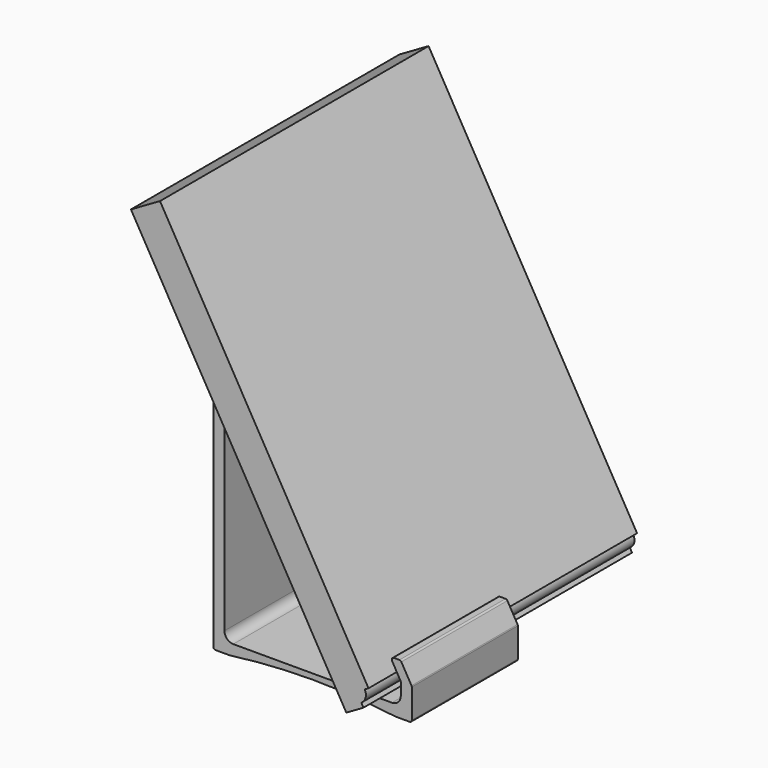
from build123d import *

# Parameters (mm, degrees)
F1_DEPTH = 96.52
F2_ANGLE = -30
F5_DEPTH = 76.2
F8_R     = 1.27
F9_R     = 5.08


with BuildPart() as f1:
    # F0 (on Front) → F1 (new body, symmetric)
    with BuildSketch(Plane.XZ):
        with BuildLine():
            Line((0, 247.65), (0, 0))
            Line((0, 0), (11.43, 0))
            Line((11.43, 0), (11.43, 2.54))
            ThreePointArc((11.43, 2.54), (15.2017075708, 4.1022924292), (16.764, 7.874))
            Line((16.764, 7.874), (19.304, 7.874))
            Line((19.304, 7.874), (19.304, 247.65))
            Line((19.304, 247.65), (0, 247.65))
        make_face()
    extrude(amount=F1_DEPTH, both=True)


with BuildPart() as f1_1:
    # F2: moved
    add(f1.part.rotate(Axis((0, 0, 0), (0, 1, 0)), F2_ANGLE))


with BuildPart() as f5:
    # F4 (on offset) → F5 (new body)
    with BuildSketch(Plane.XZ.offset(76.2)):
        with BuildLine():
            Line((21.4404751301, 12.0308227776), (15.0668891011, 23.0701976062))
            Line((15.0668891011, 23.0701976062), (8.9707543947, 23.0701976062))
            Line((8.9707543947, 23.0701976062), (15.0904751301, 12.4705303643))
            Line((15.0904751301, 12.4705303643), (15.0904751301, 0))
            Line((15.0904751301, 0), (-86.3141369069, 0))
            Line((-86.3141369069, 0), (-86.3141369069, 149.5004705342))
            Line((-86.3141369069, 149.5004705342), (-89.4891369069, 154.9997318482))
            Line((-89.4891369069, 154.9997318482), (-92.6641369069, 154.9997318482))
            Line((-92.6641369069, 154.9997318482), (-92.6641369069, -6.35))
            Line((-92.6641369069, -6.35), (-83.1391369069, -6.35))
            ThreePointArc((-83.1391369069, -6.35), (-35.6118308884, -3.175), (11.9154751301, -6.35))
            Line((11.9154751301, -6.35), (21.4404751301, -6.35))
            Line((21.4404751301, -6.35), (21.4404751301, 12.0308227776))
        make_face()
    extrude(amount=-F5_DEPTH)

    # F8
    f8_edges = [f5.edges().sort_by_distance(p)[0] for p in [
        (8.970754, -38.1, 23.070198),
        (15.066889, -38.1, 23.070198),
        (21.440475, -38.1, 12.030823),
        (21.440475, -38.1, -6.35),
        (11.915475, -38.1, -6.35),
        (-83.139137, -38.1, -6.35),
        (-92.664137, -38.1, -6.35),
        (-92.664137, -38.1, 154.999732),
        (-89.489137, -38.1, 154.999732),
        (-86.314137, -38.1, 149.500471),
    ]]
    fillet(f8_edges, radius=F8_R)

    # F9
    f9_edges = [f5.edges().sort_by_distance(p)[0] for p in [
        (-86.314137, -38.1, 0),
        (15.090475, -38.1, 0),
    ]]
    fillet(f9_edges, radius=F9_R)


solid = Compound([f1_1.part, f5.part])
